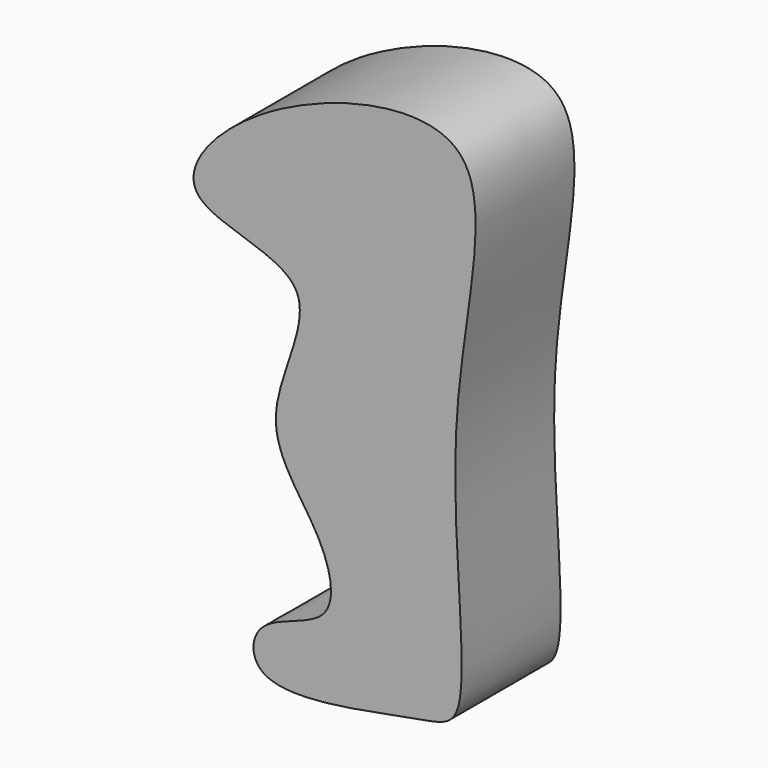
from build123d import *

# Parameters (mm, degrees)
F1_DEPTH = 25.4


with BuildPart() as f1:
    # F0 (on Front) → F1 (new body)
    with BuildSketch(Plane.XZ):
        with BuildLine():
            add(Edge.make_bspline(
                [(-40.2644351125, 42.2361493111), (-50.1708980135, 36.0335683203), (-62.9207021383, 19.8862813427), (-22.7786563811, 17.7815095396), (-43.5451525585, -12.9925599196), (-27.1794379048, -28.5197144938), (-23.5308293686, -46.5591573307), (-42.1953412833, -47.7452802463), (-42.6246637672, -64.303969545), (-8.5431498606, -56.1148437463), (4.8071819811, -55.4171304628), (-5.5856869112, 0.1430202596), (14.1670272472, 60.8706967766), (-26.971251507, 50.5592055585), (-40.2644351125, 42.2361493111)],
                knots=[0, 0, 0, 0, 0.081126813, 0.1618636625, 0.2467029529, 0.324744279, 0.3874019288, 0.4518093729, 0.5003040867, 0.5947990289, 0.6482400019, 0.7717965958, 0.8911383779, 1, 1, 1, 1], degree=3))
        make_face()
    extrude(amount=F1_DEPTH)


solid = f1.part
